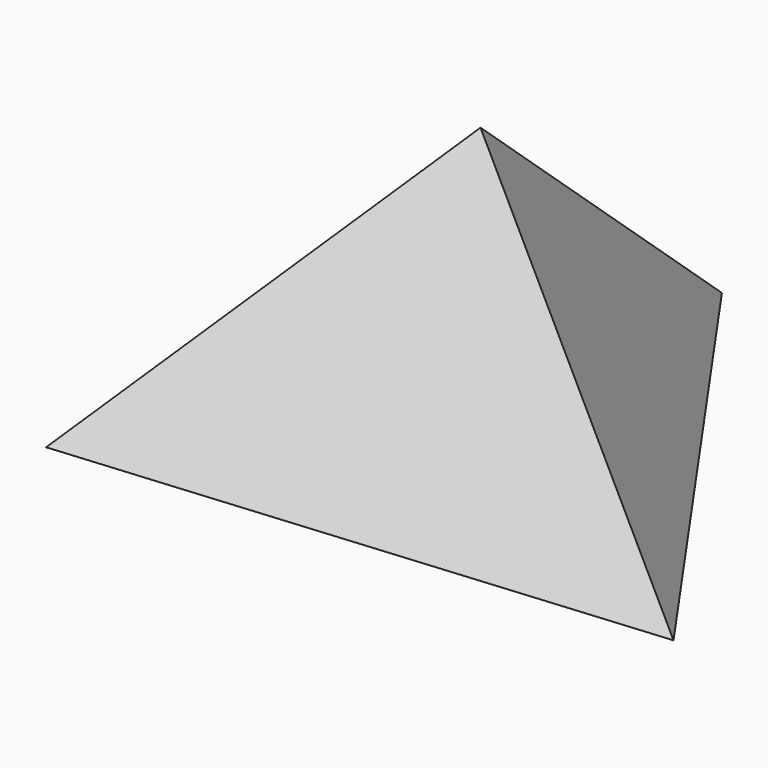
from build123d import *


with BuildPart() as f3:
    # F0 (on Top) → F3 section 0
    with BuildSketch(Plane.XY, mode=Mode.PRIVATE) as f3_s0:
        Polygon((-95.144944, -66.568666), (105.222628, -49.113605), (-10.077684, 115.682271), align=None)
    loft([f3_s0.sketch, Vertex(0, 0, 100)])


solid = f3.part
